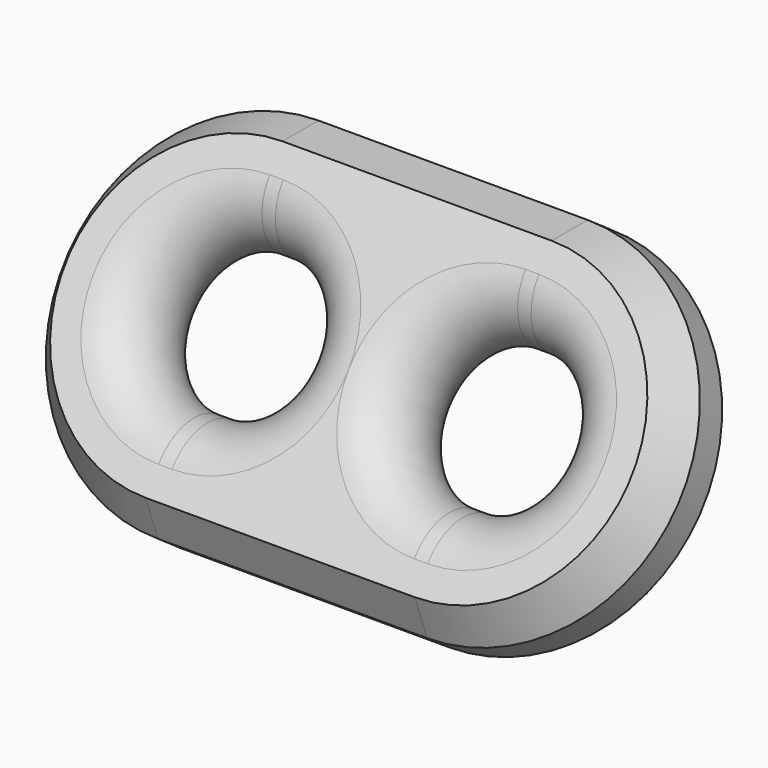
from build123d import *

# Parameters (mm, degrees)
PAD002_DEPTH           = 4
SKETCH020_W            = 5
SKETCH020_H            = 30
POCKET003_DEPTH        = 4.001
POCKET003_DEPTH_BACK   = 4.001
FUSION_PLACEMENT_ANGLE = 35


with BuildPart() as obj1:
    # AdditivePipe003: sweep along a path in Sketch015
    with BuildLine(Plane.XZ) as additivepipe003_path:
        Line((0, -9), (10, -9))
        ThreePointArc((10, -9), (19, 2e-06), (9.999996, 9))
        Line((9.999996, 9), (0, 9))
    # Sketch016 → AdditivePipe003 (sweep)
    with BuildSketch(Plane.YZ):
        with BuildLine():
            ThreePointArc((-4, 9), (0, 5), (4, 9))
            Line((4, 11.082268), (4, 9))
            Line((1.261195, 13), (4, 11.082268))
            Line((-1.261195, 13), (1.261195, 13))
            Line((-1.261195, 13), (-4, 11.082268))
            Line((-4, 9), (-4, 11.082268))
        make_face()
    sweep(path=additivepipe003_path.line)

    # AdditivePipe004: sweep along a path in Sketch017
    with BuildLine(Plane.XZ) as additivepipe004_path:
        ThreePointArc((9, 9), (0, 0), (9, -9))
    # Sketch018 → AdditivePipe004 (sweep)
    with BuildSketch(Plane.YZ.offset(9)):
        with BuildLine():
            ThreePointArc((-4, 9), (0, 5), (4, 9))
            Line((4, 11.082268), (4, 9))
            Line((1.261195, 13), (4, 11.082268))
            Line((-1.261195, 13), (1.261195, 13))
            Line((-1.261195, 13), (-4, 11.082268))
            Line((-4, 9), (-4, 11.082268))
        make_face()
    sweep(path=additivepipe004_path.line)

    # Sketch019 → Pad002 (new body, symmetric)
    with BuildSketch(Plane.XZ):
        with BuildLine():
            Line((0, 10), (3.5, 10))
            Line((3.5, 10), (3.5, 8.351647))
            ThreePointArc((3.5, 8.351647), (-1, 0), (3.5, -8.351647))
            Line((3.5, -8.351647), (3.5, -10))
            Line((3.5, -10), (0, -10))
            Line((0, -10), (-2, 0))
            Line((0, 10), (-2, 0))
        make_face()
    extrude(amount=PAD002_DEPTH, both=True)

    # Sketch020 → Pocket003 (cut, two sides)
    with BuildSketch(Plane.XZ) as pocket003_sk:
        with Locations((-2.5, 0)):
            Rectangle(SKETCH020_W, SKETCH020_H)
    extrude(amount=-POCKET003_DEPTH, mode=Mode.SUBTRACT)
    extrude(pocket003_sk.sketch, amount=POCKET003_DEPTH_BACK, mode=Mode.SUBTRACT)


with BuildPart() as fat_link:
    # Part__Mirroring: instance of obj1
    add(obj1.part.mirror(Plane(origin=(0, 0, 0), x_dir=(0, -1, 0), z_dir=(1, 0, 0))))

    # Fusion: union obj1
    add(obj1.part)


with BuildPart() as fat_link_1:
    # Fusion placement: moved
    add(fat_link.part.rotate(Axis((0, 0, 0), (-1, 0, 0)), FUSION_PLACEMENT_ANGLE))


solid = fat_link_1.part
